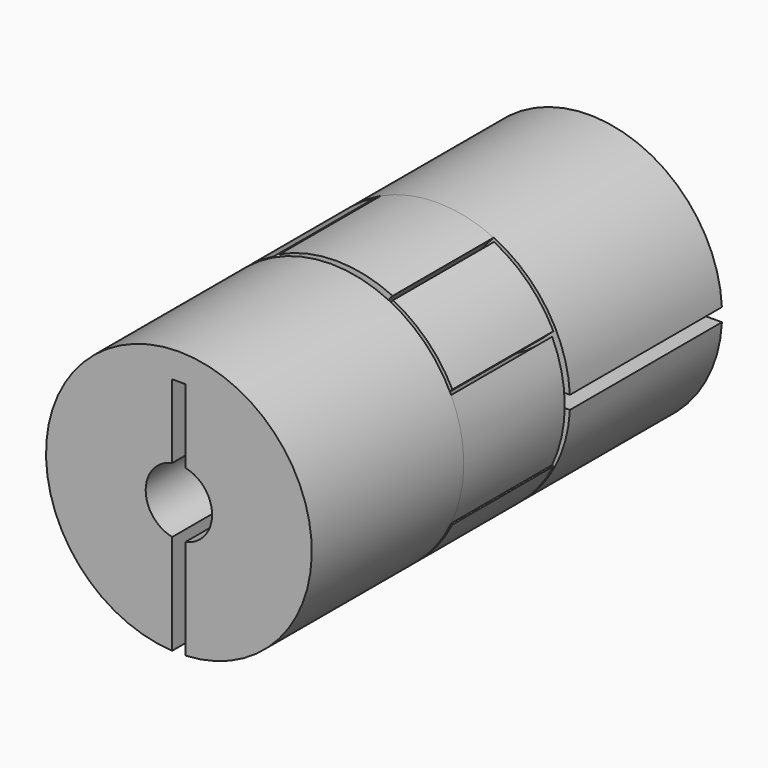
from build123d import *

# Parameters (mm, degrees)
F3_DEPTH      = 4.75
F4_COUNT      = 4
F5_START      = -5
F0_R          = 10
F5_DEPTH      = 14.3
F6_W          = 18
F6_H          = 1
F7_DEPTH      = 25
F8_DEPTH      = 5
F8_DEPTH_BACK = 4.5
F9_R          = 2.5
F10_DEPTH     = 19.301
F12_ANGLE     = 90


with BuildPart() as f3:
    # F2 (on Front) → F3 (new body, symmetric)
    with BuildSketch(Plane.XZ):
        with BuildLine():
            ThreePointArc((-4.4586358523, 1.6380068182), (3.3587572106, -3.3587572106), (-1.6380068182, 4.4586358523))
            ThreePointArc((-1.6380068182, 4.4586358523), (-2.8228261992, 6.8488983126), (-4.4773818182, 8.9416470549))
            ThreePointArc((-4.4773818182, 8.9416470549), (-7.0710678119, 7.0710678119), (-8.9416470549, 4.4773818182))
            ThreePointArc((-8.9416470549, 4.4773818182), (-6.8488983126, 2.8228261992), (-4.4586358523, 1.6380068182))
        make_face()
    extrude(amount=F3_DEPTH, both=True)

    # F4: F3 ×4 about axis
    f4_axis = Axis((0, 0, 0), (0, -1, 0))


with BuildPart() as f3_1:
    add(f3.part)
    for i in range(1, F4_COUNT):
        add(f3.part.rotate(f4_axis, i * 360 / F4_COUNT))


with BuildPart() as f5:
    # F0 (on Front) → F5 (new body)
    with BuildSketch(Plane.XZ.offset(F5_START)):
        Circle(F0_R)
    extrude(amount=-F5_DEPTH)

    # F6 (on Front) → F7 (cut)
    with BuildSketch(Plane.XZ):
        with Locations((1, 0)):
            Rectangle(F6_W, F6_H)
    extrude(amount=-F7_DEPTH, mode=Mode.SUBTRACT)

    # F1 (on Front) → F8 (join, two sides)
    with BuildSketch(Plane.XZ) as f8_sk:
        with BuildLine():
            ThreePointArc((1.5, 4.7696960071), (2.6640650262, 7.0462745848), (4.25, 9.0519334951))
            ThreePointArc((4.25, 9.0519334951), (0, 10), (-4.25, 9.0519334951))
            ThreePointArc((-4.25, 9.0519334951), (-2.6640650262, 7.0462745848), (-1.5, 4.7696960071))
            ThreePointArc((-1.5, 4.7696960071), (0, 5), (1.5, 4.7696960071))
        make_face()
        with BuildLine():
            ThreePointArc((-1.5, -4.7696960071), (-2.6640650262, -7.0462745848), (-4.25, -9.0519334951))
            ThreePointArc((-4.25, -9.0519334951), (0, -10), (4.25, -9.0519334951))
            ThreePointArc((4.25, -9.0519334951), (2.6640650262, -7.0462745848), (1.5, -4.7696960071))
            ThreePointArc((1.5, -4.7696960071), (0, -5), (-1.5, -4.7696960071))
        make_face()
    extrude(amount=-F8_DEPTH)
    extrude(f8_sk.sketch, amount=F8_DEPTH_BACK)

    # F9 (on Front) → F10 (cut, through all)
    with BuildSketch(Plane.XZ):
        Circle(F9_R)
    extrude(amount=-F10_DEPTH, mode=Mode.SUBTRACT)


with BuildPart() as f11_1:
    # F11: instance of F5
    add(f5.part.mirror(Plane.XZ))


with BuildPart() as f11_1_1:
    # F12: moved
    add(f11_1.part.rotate(Axis((0, -5, 0), (0, 1, 0)), F12_ANGLE))


solid = Compound([f3_1.part, f5.part, f11_1_1.part])
